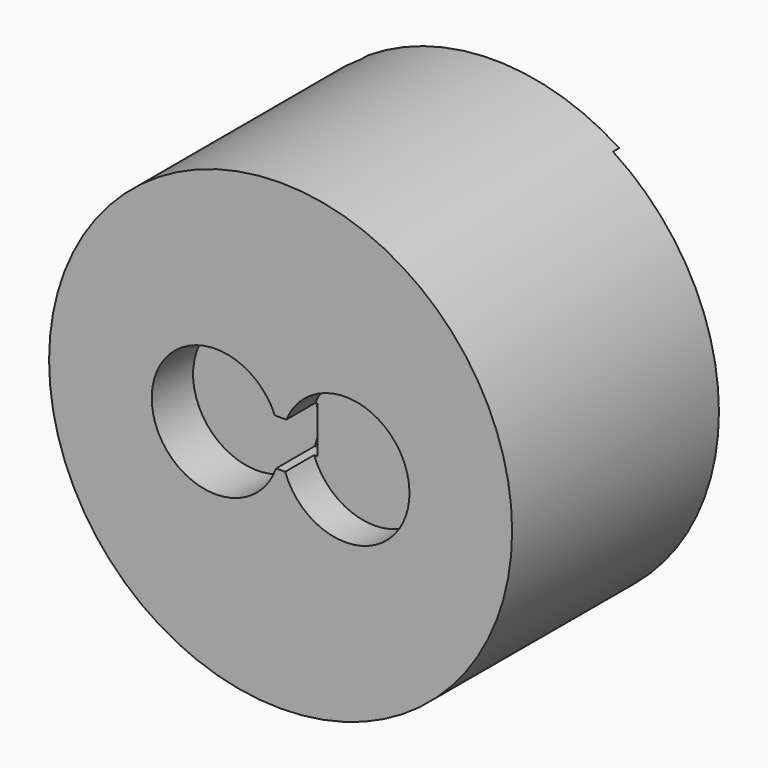
from build123d import *

# Parameters (mm, degrees)
BOX013_W            = 1
BOX013_H            = 3.2
BOX013_DEPTH        = 3
CYLINDER009_R       = 4.15
CYLINDER009_DEPTH   = 10
CYLINDER007_R       = 4.15
CYLINDER007_DEPTH   = 10
BOX007_W            = 50
BOX007_H            = 25
BOX007_DEPTH        = 0.5
SKETCH006_R         = 15
EXTRUDE003003_DEPTH = 17.25


with BuildPart() as cube012:
    # Box013 → Box013 (new body)
    with BuildSketch(Plane(origin=(88.5, -17.3, 9), x_dir=(1, 0, 0), z_dir=(0, 0, 1))):
        with Locations((0.5, 1.6)):
            Rectangle(BOX013_W, BOX013_H)
    extrude(amount=BOX013_DEPTH)


with BuildPart() as obj1:
    # Cylinder009 → Cylinder009 (new body)
    with BuildSketch(Plane(origin=(93.2, -14.9, 10.4), x_dir=(1, 0, 0), z_dir=(0, -1, 0))):
        Circle(CYLINDER009_R)
    extrude(amount=CYLINDER009_DEPTH)


with BuildPart() as obj2:
    # Cylinder007 → Cylinder007 (new body)
    with BuildSketch(Plane(origin=(84.8, -13.9, 10.4), x_dir=(1, 0, 0), z_dir=(0, -1, 0))):
        Circle(CYLINDER007_R)
    extrude(amount=CYLINDER007_DEPTH)


with BuildPart() as cube007:
    # Box007 → Box007 (new body)
    with BuildSketch(Plane(origin=(66, 0, -2), x_dir=(1, 0, 0), z_dir=(0, -1, 0))):
        with Locations((25, 12.5)):
            Rectangle(BOX007_W, BOX007_H)
    extrude(amount=BOX007_DEPTH)


with BuildPart() as obj3:
    # Sketch006 → Extrude003003 (new body)
    with BuildSketch(Plane.XZ):
        with Locations((89, 10.4)):
            Circle(SKETCH006_R)
    extrude(amount=EXTRUDE003003_DEPTH)

    # Cut005014006: cut Cube007
    add(cube007.part, mode=Mode.SUBTRACT)

    # Cut005014007: cut obj2
    add(obj2.part, mode=Mode.SUBTRACT)

    # Cut005014010: cut obj1
    add(obj1.part, mode=Mode.SUBTRACT)

    # Cut005014011: cut Cube012
    add(cube012.part, mode=Mode.SUBTRACT)


solid = obj3.part
